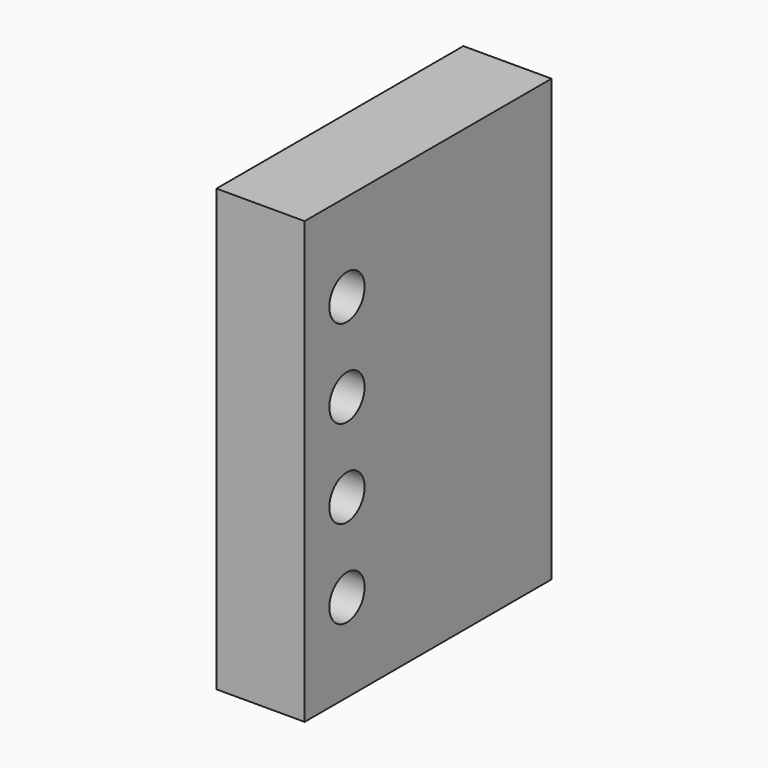
from build123d import *

# Parameters (mm, degrees)
F0_W     = 6.35
F0_H     = 31.75
F1_DEPTH = 22.225
F2_R     = 1.5875
F3_DEPTH = 6.35


with BuildPart() as f1:
    # F0 (on Front) → F1 (new body)
    with BuildSketch(Plane.XZ):
        with Locations((-3.177905, 18.836284)):
            Rectangle(F0_W, F0_H)
    extrude(amount=F1_DEPTH)

    # F2 (on face) → F3 (cut)
    with BuildSketch(Plane.YZ.offset(-0.002905)):
        with Locations((-18.415, 22.011284)):
            Circle(F2_R)
        with Locations((-18.415, 15.661284)):
            Circle(F2_R)
        with Locations((-18.415, 9.311284)):
            Circle(F2_R)
        with Locations((-18.415, 28.361284)):
            Circle(F2_R)
    extrude(amount=-F3_DEPTH, mode=Mode.SUBTRACT)


solid = f1.part
